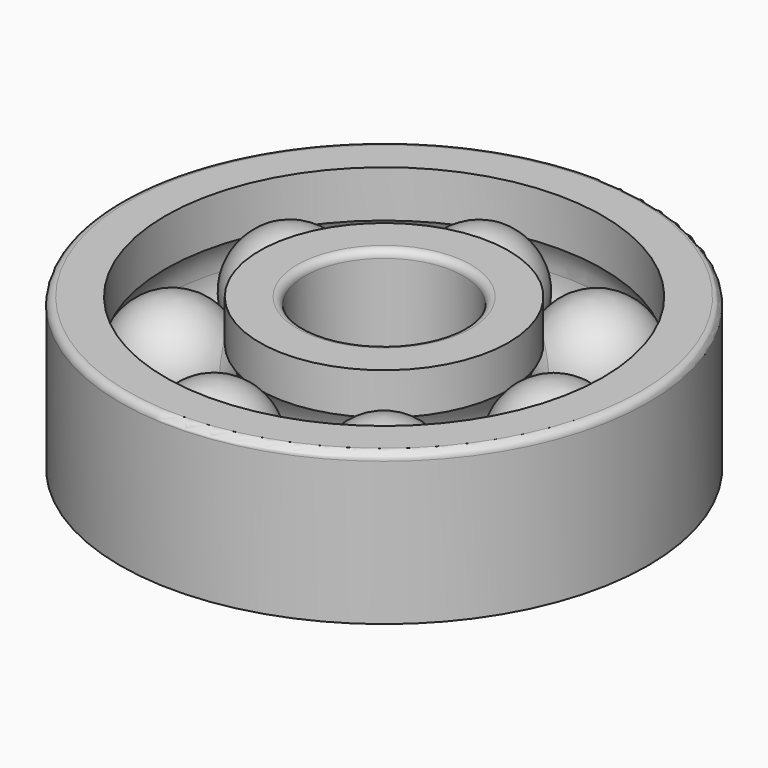
from build123d import *

# Parameters (mm, degrees)
F3_COUNT = 7
F4_R     = 2
F5_R     = 2


with BuildPart() as f1:
    # F0 (on Front) → F1 (revolve)
    with BuildSketch(Plane.XZ):
        with BuildLine():
            ThreePointArc((58.3085754524, 4.0386076125), (46.1718384061, 11.4398649055), (33.3085754524, 5.3887937745))
            Line((33.3085754524, 5.3887937745), (33.3085754524, -3.5383068025))
            Line((33.3085754524, -3.5383068025), (58.3085754524, -3.5383068025))
            Line((58.3085754524, -3.5383068025), (58.3085754524, 4.0386076125))
        make_face()
        with BuildLine():
            Line((33.3085754524, -3.5383068025), (33.3085754524, 5.3887937745))
            ThreePointArc((33.3085754524, 5.3887937745), (31.1183460728, 1.1619616897), (30.3629055992, -3.5383068025))
            Line((30.3629055992, -3.5383068025), (33.3085754524, -3.5383068025))
        make_face()
        with BuildLine():
            ThreePointArc((60.3629055992, -3.5383068025), (59.8402162575, 0.3869289994), (58.3085754524, 4.0386076125))
            Line((58.3085754524, 4.0386076125), (58.3085754524, -3.5383068025))
            Line((58.3085754524, -3.5383068025), (60.3629055992, -3.5383068025))
        make_face()
    revolve(axis=Axis((45.3629055992, 0, -3.5383068025), (1, 0, 0)))


with BuildPart() as f2:
    # F0 (on Front) → F2 (revolve)
    with BuildSketch(Plane.XZ):
        with BuildLine():
            Line((33.3085754524, 16.4616931975), (21.3085754524, 16.4616931975))
            Line((21.3085754524, 16.4616931975), (21.3085754524, -3.5383068025))
            Line((21.3085754524, -3.5383068025), (30.3629055992, -3.5383068025))
            ThreePointArc((30.3629055992, -3.5383068025), (31.1183460728, 1.1619616897), (33.3085754524, 5.3887937745))
            Line((33.3085754524, 5.3887937745), (33.3085754524, 16.4616931975))
        make_face()
        with BuildLine():
            Line((30.3629055992, -3.5383068025), (21.3085754524, -3.5383068025))
            Line((21.3085754524, -3.5383068025), (21.3085754524, -23.5383068025))
            Line((21.3085754524, -23.5383068025), (33.3085754524, -23.5383068025))
            Line((33.3085754524, -23.5383068025), (33.3085754524, -12.4654073795))
            ThreePointArc((33.3085754524, -12.4654073795), (31.1183460728, -8.2385752947), (30.3629055992, -3.5383068025))
        make_face()
    revolve(axis=Axis((0.3085754524, 0, -6.5322574228), (0, 0, -1)))

    # F4
    f4_edges = [f2.edges().sort_by_distance(p)[0] for p in [
        (-20.691425, 0, 16.461693),
    ]]
    fillet(f4_edges, radius=F4_R)


with BuildPart() as f2b:
    # F0 (on Front) → F2, piece 2 (revolve)
    with BuildSketch(Plane.XZ):
        with BuildLine():
            Line((58.3085754524, 16.4616931975), (58.3085754524, 4.0386076125))
            ThreePointArc((58.3085754524, 4.0386076125), (59.8402162575, 0.3869289994), (60.3629055992, -3.5383068025))
            Line((60.3629055992, -3.5383068025), (70.3085754524, -3.5383068025))
            Line((70.3085754524, -3.5383068025), (70.3085754524, 16.4616931975))
            Line((70.3085754524, 16.4616931975), (58.3085754524, 16.4616931975))
        make_face()
        with BuildLine():
            Line((70.3085754524, -3.5383068025), (60.3629055992, -3.5383068025))
            ThreePointArc((60.3629055992, -3.5383068025), (59.8402162575, -7.4635426045), (58.3085754524, -11.1152212175))
            Line((58.3085754524, -11.1152212175), (58.3085754524, -23.5383068025))
            Line((58.3085754524, -23.5383068025), (70.3085754524, -23.5383068025))
            Line((70.3085754524, -23.5383068025), (70.3085754524, -3.5383068025))
        make_face()
    revolve(axis=Axis((0.3085754524, 0, -6.5322574228), (0, 0, -1)))

    # F5
    f5_edges = [f2b.edges().sort_by_distance(p)[0] for p in [
        (-69.691425, 0, 16.461693),
    ]]
    fillet(f5_edges, radius=F5_R)


with BuildPart() as f3_1:
    # F3: instance of F1
    add(f1.part.rotate(Axis((0.3085754524, 0, 16.4616931975), (0, 0, -1)), 1 * 360 / F3_COUNT))


with BuildPart() as f3_2:
    # F3: instance of F1
    add(f1.part.rotate(Axis((0.3085754524, 0, 16.4616931975), (0, 0, -1)), 2 * 360 / F3_COUNT))


with BuildPart() as f3_3:
    # F3: instance of F1
    add(f1.part.rotate(Axis((0.3085754524, 0, 16.4616931975), (0, 0, -1)), 3 * 360 / F3_COUNT))


with BuildPart() as f3_4:
    # F3: instance of F1
    add(f1.part.rotate(Axis((0.3085754524, 0, 16.4616931975), (0, 0, -1)), 4 * 360 / F3_COUNT))


with BuildPart() as f3_5:
    # F3: instance of F1
    add(f1.part.rotate(Axis((0.3085754524, 0, 16.4616931975), (0, 0, -1)), 5 * 360 / F3_COUNT))


with BuildPart() as f3_6:
    # F3: instance of F1
    add(f1.part.rotate(Axis((0.3085754524, 0, 16.4616931975), (0, 0, -1)), 6 * 360 / F3_COUNT))


solid = Compound([f1.part, f2.part, f2b.part, f3_1.part, f3_2.part, f3_3.part, f3_4.part, f3_5.part, f3_6.part])
